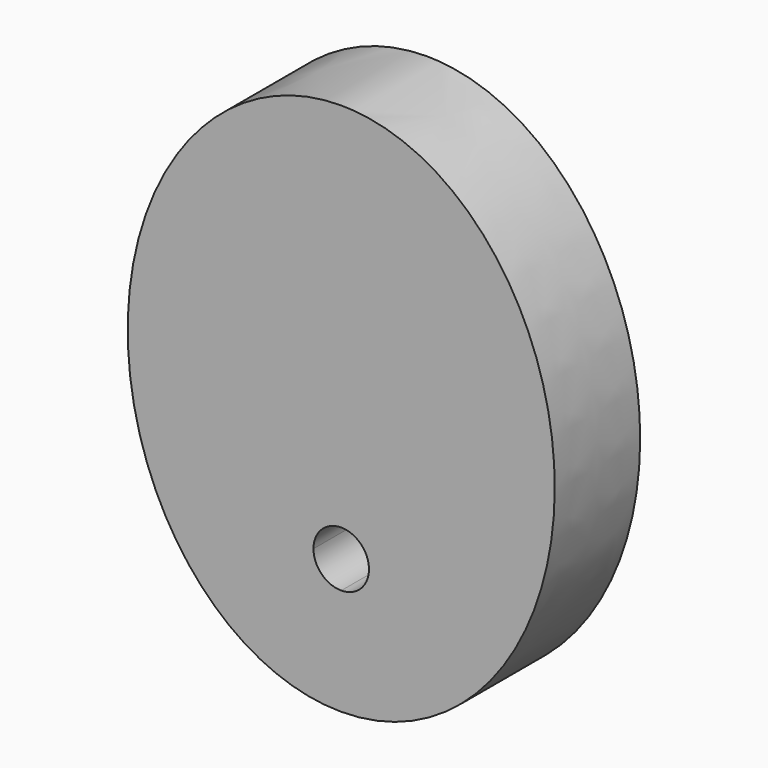
from build123d import *

# Parameters (mm, degrees)
F1_DEPTH = 12.7
F3_DEPTH = 25.4


with BuildPart() as f1:
    # F0 (on Front) → F1 (new body)
    with BuildSketch(Plane.XZ):
        with BuildLine():
            add(Edge.make_bspline(
                [(0, 31.75), (-43.994091, 31.75), (-21.997045, -15.875), (0, -63.5), (21.997045, -15.875), (43.994091, 31.75), (0, 31.75)],
                knots=[0, 0, 0, 2.094395, 2.094395, 4.18879, 4.18879, 6.283185, 6.283185, 6.283185], degree=2, weights=[1, 0.5, 1, 0.5, 1, 0.5, 1]))
        make_face()
    extrude(amount=F1_DEPTH)

    # F2 (on face) → F3 (cut)
    with BuildSketch(Plane(origin=(0, 0, 0), x_dir=(-1, 0, 0), z_dir=(0, 1, 0))):
        with BuildLine():
            ThreePointArc((0, -19.05), (2.334867, -18.082867), (3.302, -15.748))
            ThreePointArc((3.302, -15.748), (-2.334867, -13.413133), (0, -19.05))
        make_face()
    extrude(amount=-F3_DEPTH, mode=Mode.SUBTRACT)


solid = f1.part
